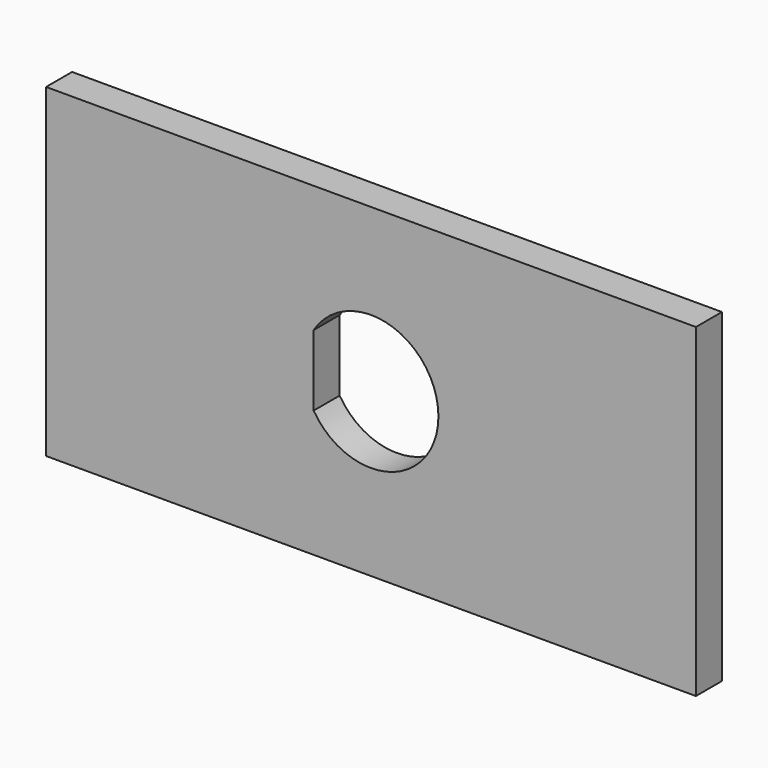
from build123d import *

# Parameters (mm, degrees)
F0_W     = 100
F0_H     = 50
F1_DEPTH = 2.5


with BuildPart() as f1:
    # F0 (on Front) → F1 (new body, symmetric)
    with BuildSketch(Plane.XZ):
        Rectangle(F0_W, F0_H)
        with BuildLine():
            ThreePointArc((10.375, 0), (2.835445, -9.980024), (-8.825169, -5.455))
            Line((-8.825169, -5.455), (-8.825169, 0))
            Line((-8.825169, 0), (-8.825169, 5.455))
            ThreePointArc((-8.825169, 5.455), (2.835445, 9.980024), (10.375, 0))
        make_face(mode=Mode.SUBTRACT)
    extrude(amount=F1_DEPTH, both=True)


solid = f1.part
